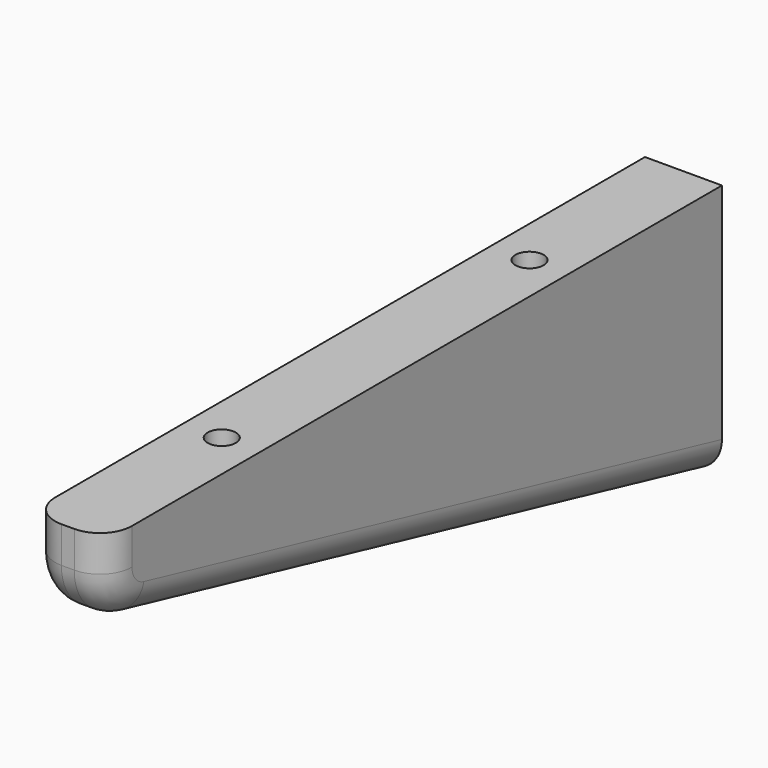
from build123d import *

# Parameters (mm, degrees)
F1_DEPTH = 12
F2_R     = 5
F3_R     = 2.2
F4_DEPTH = 40.001
F6_START = -5
F6_DEPTH = 35.0010001


with BuildPart() as f1:
    # F0 (on Right) → F1 (new body)
    with BuildSketch(Plane.YZ):
        with BuildLine():
            Line((0, -40), (0, 0))
            Line((0, 0), (-120, 0))
            Line((-120, 0), (-120, -5.6517750396))
            ThreePointArc((-120, -5.6517750396), (-118.2666855434, -10.6245662378), (-113.8178369249, -13.4425047175))
            Line((-113.8178369249, -13.4425047175), (0, -40))
        make_face()
    extrude(amount=F1_DEPTH)

    # F2
    f2_edges = [f1.edges().sort_by_distance(p)[0] for p in [
        (0, -56.908918, -26.721252),
        (12, -56.908918, -26.721252),
    ]]
    fillet(f2_edges, radius=F2_R)

    # F3 (on face) → F4 (cut, through all)
    with BuildSketch(Plane.XY):
        with Locations((6, -30)):
            Circle(F3_R)
        with Locations((6, -90)):
            Circle(F3_R)
    extrude(amount=-F4_DEPTH, mode=Mode.SUBTRACT)

    # F5 (on face) → F6 (cut)
    with BuildSketch(Plane.XY.offset(F6_START)):
        Polygon((2.45, -32.0495934556), (6, -34.0991869112), (9.55, -32.0495934556), (9.55, -27.9504065444), (6, -25.9008130888), (2.45, -27.9504065444), align=None)
        Polygon((2.45, -92.0495934556), (6, -94.0991869112), (9.55, -92.0495934556), (9.55, -87.9504065444), (6, -85.9008130888), (2.45, -87.9504065444), align=None)
    extrude(amount=-F6_DEPTH, mode=Mode.SUBTRACT)


solid = f1.part
